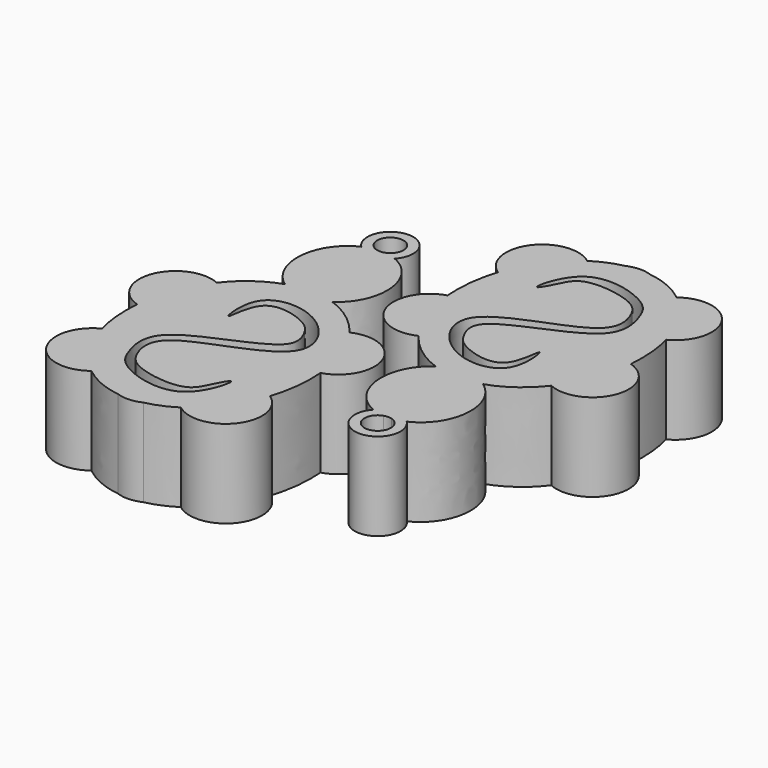
from build123d import *

# Parameters (mm, degrees)
F1_DEPTH = 12.7


with BuildPart() as f1:
    # F0 (on Top) → F1 (new body)
    with BuildSketch(Plane.XY):
        with BuildLine():
            add(Edge.make_bspline(
                [(-38.4036007236, 54.286360619), (-40.5407390169, 53.8369409967), (-42.4553347408, 52.5724402571)],
                knots=[3.3089592847, 3.3089592847, 3.3089592847, 3.629425291, 3.629425291, 3.629425291], degree=2, weights=[1, 0.9871901349, 1]))
            ThreePointArc((-42.4553347408, 52.5724402571), (-49.9254263975, 51.528077674), (-48.5962456426, 44.1033728929))
            add(Edge.make_bspline(
                [(-48.5962456426, 44.1033728929), (-49.8510646166, 40.2541539838), (-49.5101324415, 36.1218548607)],
                knots=[4.3269205864, 4.3269205864, 4.3269205864, 4.8147242163, 4.8147242163, 4.8147242163], degree=2, weights=[1, 0.9704031116, 1]))
            ThreePointArc((-49.5101324415, 36.1218548607), (-52.9875717284, 29.2732674759), (-45.8927251318, 26.3306691461))
            add(Edge.make_bspline(
                [(-45.8927251318, 26.3306691461), (-43.3095989809, 22.9459104938), (-39.6905513849, 21.7202069857)],
                knots=[5.4721092235, 5.4721092235, 5.4721092235, 6.0175207729, 6.0175207729, 6.0175207729], degree=2, weights=[1, 0.9630456541, 1]))
            add(Edge.make_bspline(
                [(-39.6905513849, 21.7202069857), (-51.0306414073, 14.1440802503), (-38.5834207212, 9.0395642978)],
                knots=[3.691087109, 3.691087109, 3.691087109, 5.9236096837, 5.9236096837, 5.9236096837], degree=2, weights=[1, 0.4390446104, 1]))
            ThreePointArc((-38.5834207212, 9.0395642978), (-36.1055579381, 3.4856590151), (-33.8199680166, 9.1214150932))
            add(Edge.make_bspline(
                [(-33.8199680166, 9.1214150932), (-22.2193961798, 14.3392995893), (-32.8200251184, 21.6636475907)],
                knots=[0.3910753345, 0.3910753345, 0.3910753345, 2.5770061583, 2.5770061583, 2.5770061583], degree=2, weights=[1, 0.4598541232, 1]))
            add(Edge.make_bspline(
                [(-32.8200251184, 21.6636475907), (-29.1768534598, 22.8333263485), (-26.5541477792, 26.1910925855)],
                knots=[0.2524372804, 0.2524372804, 0.2524372804, 0.7994791179, 0.7994791179, 0.7994791179], degree=2, weights=[1, 0.9628257847, 1]))
            ThreePointArc((-26.5541477792, 26.1910925855), (-19.4990970934, 29.0990203105), (-22.8431424227, 35.9581124274))
            add(Edge.make_bspline(
                [(-22.8431424227, 35.9581124274), (-22.513117884, 39.6038813291), (-23.441708777, 43.0858976345)],
                knots=[1.4585950027, 1.4585950027, 1.4585950027, 1.8912942523, 1.8912942523, 1.8912942523], degree=2, weights=[1, 0.9766875655, 1]))
            ThreePointArc((-23.441708777, 43.0858976345), (-21.3629513118, 50.5406314465), (-28.9787025253, 51.9170842286))
            add(Edge.make_bspline(
                [(-28.9787025253, 51.9170842286), (-31.6729146048, 54.0473768158), (-34.8492613547, 54.4385141895)],
                knots=[2.5756626514, 2.5756626514, 2.5756626514, 3.0429824637, 3.0429824637, 3.0429824637], degree=2, weights=[1, 0.9728254994, 1]))
            ThreePointArc((-34.8492613547, 54.4385141895), (-36.6417598056, 54.7205206093), (-38.4036007236, 54.286360619))
        make_face()
        with BuildLine():
            ThreePointArc((-35.624230038, 8.6242962222), (-34.6321842706, 7.9357739156), (-34.2507656844, 6.7900262848))
            ThreePointArc((-34.2507656844, 6.7900262848), (-37.281371343, 5.2402301881), (-36.7637430801, 8.6045279723))
            ThreePointArc((-36.7637430801, 8.6045279723), (-36.1954940651, 8.701310169), (-35.624230038, 8.6242962222))
        make_face(mode=Mode.SUBTRACT)
        with BuildLine():
            add(Edge.make_bspline(
                [(-32.7159745055, 31.7613193179), (-32.9457681858, 31.7159516502), (-32.9164711374, 25.2260600153), (-40.2661501329, 27.3553653968), (-41.9300899439, 29.2704866371), (-44.1426793733, 34.5064554381), (-27.469530037, 38.2965296804), (-29.1424079517, 45.687024976), (-30.9881740832, 49.1297692203), (-41.3880211193, 52.1066692775), (-43.690693856, 42.2430982969), (-41.4910457701, 46.0527403336), (-40.3138798785, 49.3395123958), (-32.3725533132, 48.2967317464), (-30.0807842089, 45.5064823037), (-28.8557660894, 39.0555065274), (-48.2880259748, 35.7003514186), (-41.32193218, 24.5490192709), (-31.3650644669, 24.6840988699), (-32.4783406196, 31.8082348603), (-32.7159745055, 31.7613193179)],
                knots=[0, 0, 0, 0, 0.0497546061, 0.1051648466, 0.1442851388, 0.187527286, 0.2745711332, 0.3289278296, 0.3751670231, 0.4437722424, 0.4998219753, 0.5329172663, 0.5754912769, 0.6362137504, 0.6800279856, 0.7289387893, 0.8186812062, 0.8850247502, 0.9485478436, 1, 1, 1, 1], degree=3))
        make_face(mode=Mode.SUBTRACT)
    extrude(amount=F1_DEPTH)


with BuildPart() as f1b:
    # F0 (on Top) → F1, piece 2 (new body)
    with BuildSketch(Plane.XY):
        with BuildLine():
            add(Edge.make_bspline(
                [(-59.9823948045, -5.8357354929), (-57.8452565112, -5.3863158705), (-55.9306607874, -4.1218151309)],
                knots=[3.3089592847, 3.3089592847, 3.3089592847, 3.629425291, 3.629425291, 3.629425291], degree=2, weights=[1, 0.9871901349, 1]))
            ThreePointArc((-55.9306607874, -4.1218151309), (-48.4605691307, -3.0774525478), (-49.7897498856, 4.3472522333))
            add(Edge.make_bspline(
                [(-49.7897498856, 4.3472522333), (-48.5349309116, 8.1964711424), (-48.8758630867, 12.3287702655)],
                knots=[4.3269205864, 4.3269205864, 4.3269205864, 4.8147242163, 4.8147242163, 4.8147242163], degree=2, weights=[1, 0.9704031116, 1]))
            ThreePointArc((-48.8758630867, 12.3287702655), (-45.3984237997, 19.1773576502), (-52.4932703964, 22.1199559801))
            add(Edge.make_bspline(
                [(-52.4932703964, 22.1199559801), (-55.0763965473, 25.5047146323), (-58.6954441432, 26.7304181405)],
                knots=[5.4721092235, 5.4721092235, 5.4721092235, 6.0175207729, 6.0175207729, 6.0175207729], degree=2, weights=[1, 0.9630456541, 1]))
            add(Edge.make_bspline(
                [(-58.6954441432, 26.7304181405), (-47.3553541209, 34.3065448759), (-59.802574807, 39.4110608284)],
                knots=[3.691087109, 3.691087109, 3.691087109, 5.9236096837, 5.9236096837, 5.9236096837], degree=2, weights=[1, 0.4390446104, 1]))
            ThreePointArc((-59.802574807, 39.4110608284), (-62.2804375901, 44.9649661111), (-64.5660275116, 39.329210033))
            add(Edge.make_bspline(
                [(-64.5660275116, 39.329210033), (-76.1665993484, 34.1113255368), (-65.5659704097, 26.7869775355)],
                knots=[0.3910753345, 0.3910753345, 0.3910753345, 2.5770061583, 2.5770061583, 2.5770061583], degree=2, weights=[1, 0.4598541232, 1]))
            add(Edge.make_bspline(
                [(-65.5659704097, 26.7869775355), (-69.2091420684, 25.6172987777), (-71.831847749, 22.2595325407)],
                knots=[0.2524372804, 0.2524372804, 0.2524372804, 0.7994791179, 0.7994791179, 0.7994791179], degree=2, weights=[1, 0.9628257847, 1]))
            ThreePointArc((-71.831847749, 22.2595325407), (-78.8868984347, 19.3516048156), (-75.5428531055, 12.4925126987))
            add(Edge.make_bspline(
                [(-75.5428531055, 12.4925126987), (-75.8728776441, 8.8467437971), (-74.9442867512, 5.3647274917)],
                knots=[1.4585950027, 1.4585950027, 1.4585950027, 1.8912942523, 1.8912942523, 1.8912942523], degree=2, weights=[1, 0.9766875655, 1]))
            ThreePointArc((-74.9442867512, 5.3647274917), (-77.0230442164, -2.0900063204), (-69.4072930029, -3.4664591025))
            add(Edge.make_bspline(
                [(-69.4072930029, -3.4664591025), (-66.7130809234, -5.5967516896), (-63.5367341735, -5.9878890633)],
                knots=[2.5756626514, 2.5756626514, 2.5756626514, 3.0429824637, 3.0429824637, 3.0429824637], degree=2, weights=[1, 0.9728254994, 1]))
            ThreePointArc((-63.5367341735, -5.9878890633), (-61.7442357226, -6.2698954831), (-59.9823948045, -5.8357354929))
        make_face()
        with BuildLine():
            add(Edge.make_bspline(
                [(-65.6700210226, 16.6893058083), (-65.4402273423, 16.734673476), (-65.4695243908, 23.2245651109), (-58.1198453953, 21.0952597294), (-56.4559055842, 19.1801384891), (-54.2433161548, 13.944169688), (-70.9164654911, 10.1540954458), (-69.2435875765, 2.7636001502), (-67.3978214449, -0.6791440942), (-56.9979744089, -3.6560441514), (-54.6953016722, 6.2075268292), (-56.8949497581, 2.3978847926), (-58.0721156497, -0.8888872696), (-66.013442215, 0.1538933798), (-68.3052113192, 2.9441428224), (-69.5302294387, 9.3951185988), (-50.0979695534, 12.7502737076), (-57.0640633482, 23.9016058552), (-67.0209310612, 23.7665262563), (-65.9076549085, 16.6423902659), (-65.6700210226, 16.6893058083)],
                knots=[0, 0, 0, 0, 0.0497546061, 0.1051648466, 0.1442851388, 0.187527286, 0.2745711332, 0.3289278296, 0.3751670231, 0.4437722424, 0.4998219753, 0.5329172663, 0.5754912769, 0.6362137504, 0.6800279856, 0.7289387893, 0.8186812062, 0.8850247502, 0.9485478436, 1, 1, 1, 1], degree=3))
        make_face(mode=Mode.SUBTRACT)
        with BuildLine():
            ThreePointArc((-62.7617654901, 39.8263289039), (-63.3694060093, 43.1907517205), (-60.3120869131, 41.6605988414))
            ThreePointArc((-60.3120869131, 41.6605988414), (-60.6738622817, 40.5415646481), (-61.6222524481, 39.8460971539))
            ThreePointArc((-61.6222524481, 39.8460971539), (-62.190501463, 39.7493149572), (-62.7617654901, 39.8263289039))
        make_face(mode=Mode.SUBTRACT)
    extrude(amount=F1_DEPTH)


solid = Compound([f1.part, f1b.part])
